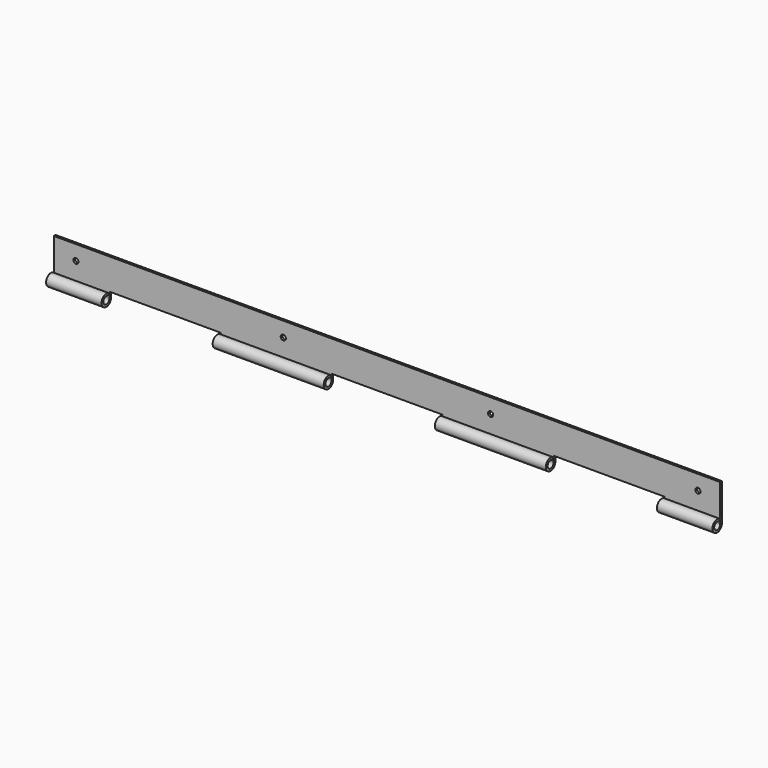
from build123d import *

# Parameters (mm, degrees)
F1_DEPTH  = 450
F9_W      = 16.4
F9_H      = 16.4
F10_DEPTH = 150
F11_W     = 16.4
F11_H     = 16.4
F12_DEPTH = 150
F13_W     = 16.4
F13_H     = 16.4
F14_DEPTH = 150
F15_R     = 3.5
F16_DEPTH = 8.001


with BuildPart() as f1:
    # F0 (on Right) → F1 (new body, symmetric)
    with BuildSketch(Plane.YZ):
        with BuildLine():
            Line((2.867882, 4.09576), (4.588611, 6.553216))
            ThreePointArc((4.588611, 6.553216), (-7.096087, -3.693989), (8, 0))
            Line((8, 0), (8, 50))
            Line((8, 50), (5, 50))
            Line((5, 50), (5, 0))
            ThreePointArc((5, 0), (-4.435054, -2.308743), (2.867882, 4.09576))
        make_face()
    extrude(amount=F1_DEPTH, both=True)

    # F9 (on offset) → F10 (cut)
    with BuildSketch(Plane.YZ.offset(375)):
        Rectangle(F9_W, F9_H)
    extrude(amount=-F10_DEPTH, mode=Mode.SUBTRACT)

    # F11 (on offset) → F12 (cut)
    with BuildSketch(Plane.YZ.offset(75)):
        Rectangle(F11_W, F11_H)
    extrude(amount=-F12_DEPTH, mode=Mode.SUBTRACT)

    # F13 (on offset) → F14 (cut)
    with BuildSketch(Plane.YZ.offset(-225)):
        Rectangle(F13_W, F13_H)
    extrude(amount=-F14_DEPTH, mode=Mode.SUBTRACT)

    # F15 (on Front) → F16 (cut, through all)
    with BuildSketch(Plane.XZ):
        with Locations((140, 30)):
            Circle(F15_R)
        with Locations((-140, 30)):
            Circle(F15_R)
        with Locations((-420, 30)):
            Circle(F15_R)
        with Locations((420, 30)):
            Circle(F15_R)
    extrude(amount=-F16_DEPTH, mode=Mode.SUBTRACT)


solid = f1.part
